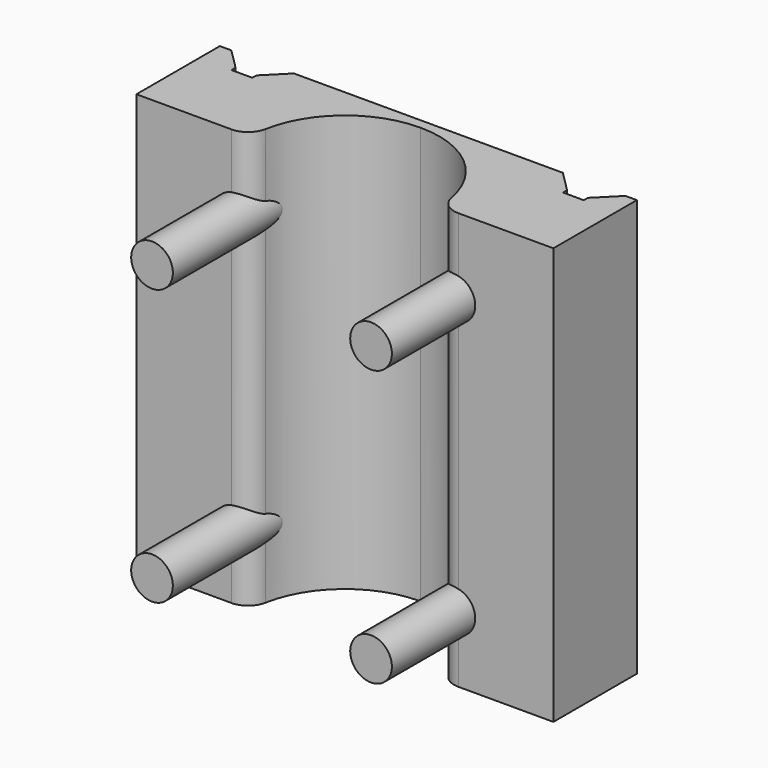
from build123d import *

# Parameters (mm, degrees)
F1_DEPTH = 50.8
F2_SIZE  = 2.54
F3_SIZE  = 2.54
F4_SIZE  = 2.54
F5_R     = 2.54
F6_R     = 2.54
F7_DEPTH = 25.4


with BuildPart() as f1:
    # F0 (on Top) → F1 (new body)
    with BuildSketch(Plane.XY):
        with BuildLine():
            Line((-25.396921, 0), (-11.509477, 0))
            ThreePointArc((-11.509477, 0), (-8.138429, 8.138429), (0, 11.509477))
            Line((0, 11.509477), (0, 12.709918))
            Line((0, 12.709918), (-18.907823, 12.709918))
            Line((-18.907823, 12.709918), (-18.907823, 9.544055))
            Line((-18.907823, 9.544055), (-21.449404, 9.544055))
            Line((-21.449404, 9.544055), (-21.449404, 12.709918))
            Line((-21.449404, 12.709918), (-25.396921, 12.709918))
            Line((-25.396921, 12.709918), (-25.396921, 0))
        make_face()
        with BuildLine():
            Line((0, 12.709918), (0, 11.509477))
            ThreePointArc((0, 11.509477), (8.138429, 8.138429), (11.509477, 0))
            Line((11.509477, 0), (25.405249, 0))
            Line((25.405249, 0), (25.405249, 12.709918))
            Line((25.405249, 12.709918), (21.477405, 12.709918))
            Line((21.477405, 12.709918), (21.477405, 9.544055))
            Line((21.477405, 9.544055), (18.936489, 9.544055))
            Line((18.936489, 9.544055), (18.936489, 12.709918))
            Line((18.936489, 12.709918), (0, 12.709918))
        make_face()
    extrude(amount=F1_DEPTH)

    # F2
    f2_edges = [f1.edges().sort_by_distance(p)[0] for p in [
        (21.477405, 12.709918, 25.4),
    ]]
    chamfer(f2_edges, length=F2_SIZE)

    # F3
    f3_edges = [f1.edges().sort_by_distance(p)[0] for p in [
        (-21.449404, 12.709918, 25.4),
        (18.936489, 12.709918, 25.4),
    ]]
    chamfer(f3_edges, length=F3_SIZE)

    # F4
    f4_edges = [f1.edges().sort_by_distance(p)[0] for p in [
        (-18.907823, 12.709918, 25.4),
    ]]
    chamfer(f4_edges, length=F4_SIZE)

    # F5
    f5_edges = [f1.edges().sort_by_distance(p)[0] for p in [
        (-11.509477, 0, 25.4),
        (11.509477, 0, 25.4),
    ]]
    fillet(f5_edges, radius=F5_R)

    # F6 (on face) → F7 (join)
    with BuildSketch(Plane(origin=(0, 12.709918, 0), x_dir=(-1, 0, 0), z_dir=(0, 1, 0))):
        with Locations((-13.342786, 41.559178)):
            Circle(F6_R)
        with Locations((13.342786, 41.559178)):
            Circle(F6_R)
        with Locations((13.342786, 7.999768)):
            Circle(F6_R)
        with Locations((-13.342786, 7.999768)):
            Circle(F6_R)
    extrude(amount=-F7_DEPTH)


solid = f1.part
